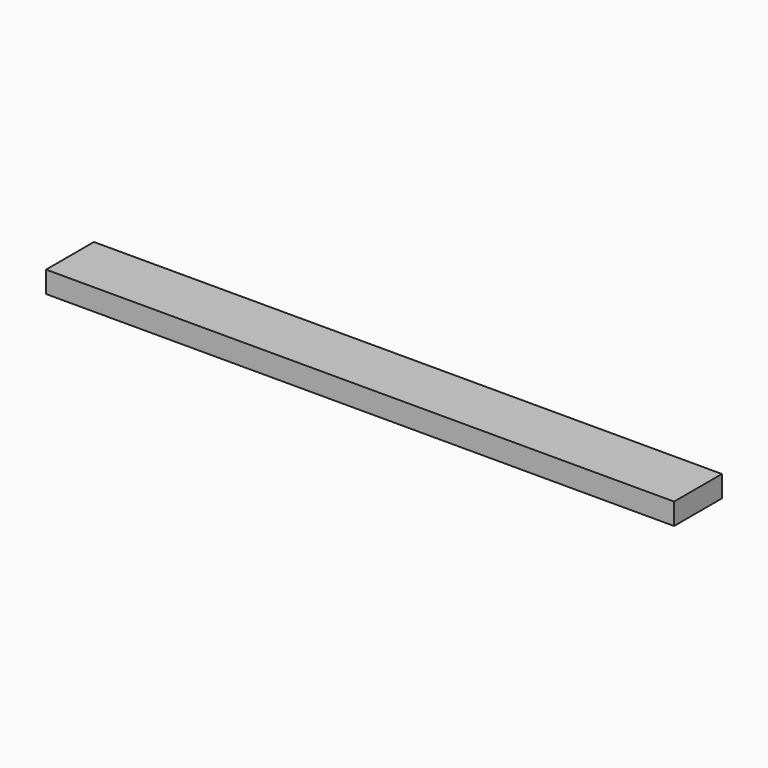
from build123d import *

# Parameters (mm, degrees)
SKETCH_W  = 525
SKETCH_H  = 50
PAD_DEPTH = 18


with BuildPart() as part:
    # Sketch → Pad (new body)
    with BuildSketch(Plane.XY):
        Rectangle(SKETCH_W, SKETCH_H)
    extrude(amount=PAD_DEPTH)


solid = part.part
